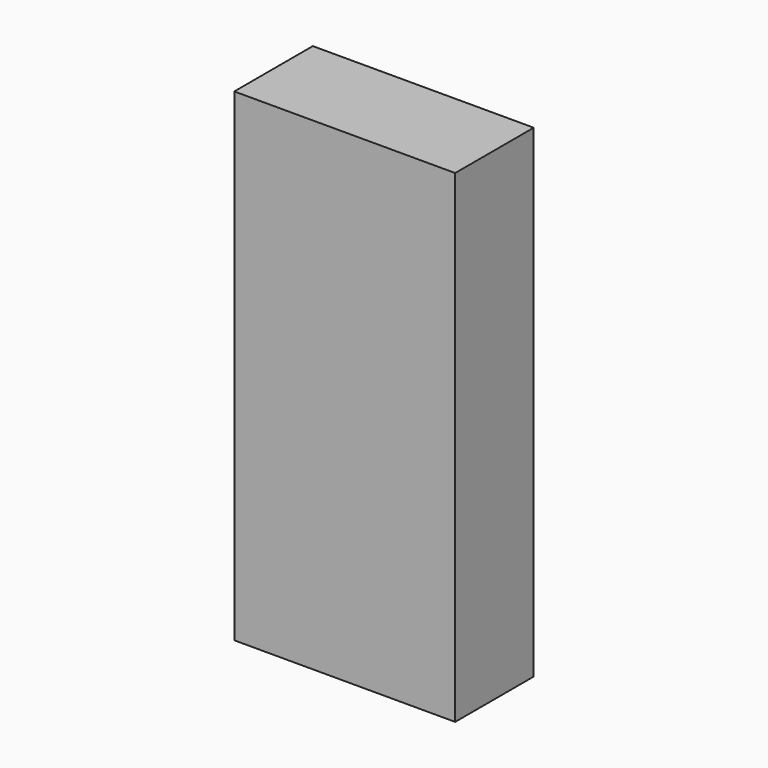
from build123d import *

# Parameters (mm, degrees)
RECTANGLE_W       = 22.86
RECTANGLE_H       = 10.16
EXTRUDE_DEPTH     = 50
CLONE_SCALE_SCALE = 0.001


with BuildPart() as extrude_body:
    # Rectangle → Extrude (new body)
    with BuildSketch(Plane(origin=(-11.43, -5.08, 0), x_dir=(1, 0, 0), z_dir=(0, 0, 1))):
        with Locations((11.43, 5.08)):
            Rectangle(RECTANGLE_W, RECTANGLE_H)
    extrude(amount=EXTRUDE_DEPTH)


with BuildPart() as extrude001:
    # Clone base: copy of Extrude body
    add(extrude_body.part)


with BuildPart() as extrude001_1:
    # Clone scale: moved
    add(extrude001.part.scale(CLONE_SCALE_SCALE))


solid = Compound([extrude_body.part, extrude001_1.part])
